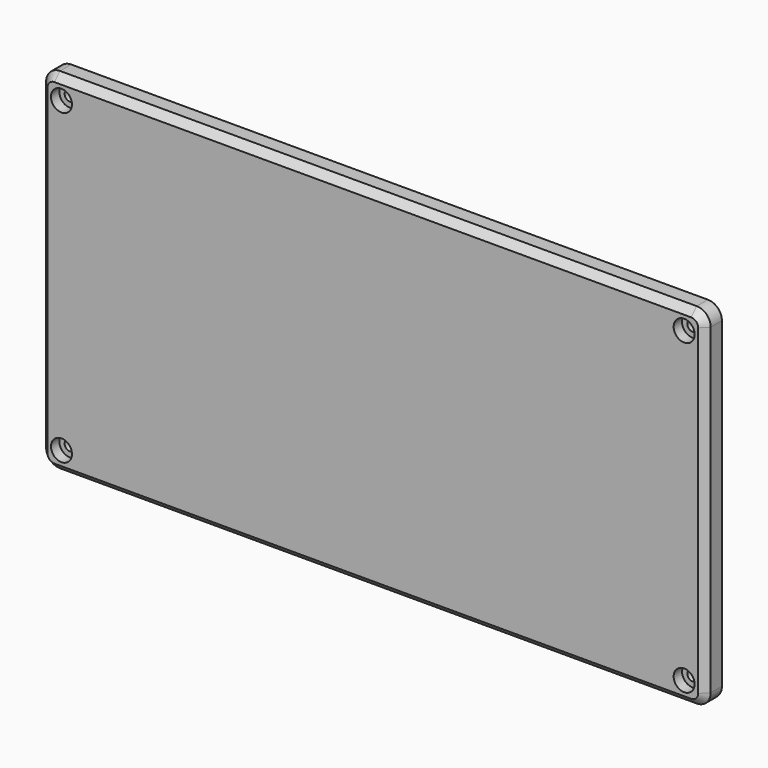
from build123d import *

# Parameters (mm, degrees)
SKETCH080_W     = 190
SKETCH080_H     = 100
PAD006_DEPTH    = 6
SKETCH081_R     = 1.5
POCKET026_DEPTH = 6.001
SKETCH082_R     = 3
POCKET027_DEPTH = 3
FILLET022_R     = 4
CHAMFER007_SIZE = 2


with BuildPart() as part:
    # Sketch080 → Pad006 (new body)
    with BuildSketch(Plane.XZ):
        with Locations((-95, 50)):
            Rectangle(SKETCH080_W, SKETCH080_H)
    extrude(amount=PAD006_DEPTH)

    # Sketch081 (on Face6 of Pad006) → Pocket026 (cut, through all)
    with BuildSketch(Plane.XZ.offset(6)):
        with Locations((-184, 94)):
            Circle(SKETCH081_R)
        with Locations((-6, 94)):
            Circle(SKETCH081_R)
        with Locations((-184, 6)):
            Circle(SKETCH081_R)
        with Locations((-6, 6)):
            Circle(SKETCH081_R)
    extrude(amount=-POCKET026_DEPTH, mode=Mode.SUBTRACT)

    # Sketch082 → Pocket027 (cut)
    with BuildSketch(Plane.XZ.offset(6)):
        with Locations((-184, 94)):
            Circle(SKETCH082_R)
        with Locations((-6, 94)):
            Circle(SKETCH082_R)
        with Locations((-184, 6)):
            Circle(SKETCH082_R)
        with Locations((-6, 6)):
            Circle(SKETCH082_R)
    extrude(amount=-POCKET027_DEPTH, mode=Mode.SUBTRACT)

    # Fillet022
    fillet022_edges = [part.edges().sort_by_distance(p)[0] for p in [
        (-190, -3, 100),
        (0, -3, 100),
        (0, -3, 0),
        (-190, -3, 0),
    ]]
    fillet(fillet022_edges, radius=FILLET022_R)

    # Chamfer007
    chamfer007_edges = [part.edges().sort_by_distance(p)[0] for p in [
        (-95, -6, 100),
    ]]
    chamfer(chamfer007_edges, length=CHAMFER007_SIZE)


with BuildPart() as part_1:
    # Body placement: moved
    add(part.part.moved(Location((-17.9, -134.7, 112.1))))


solid = part_1.part
